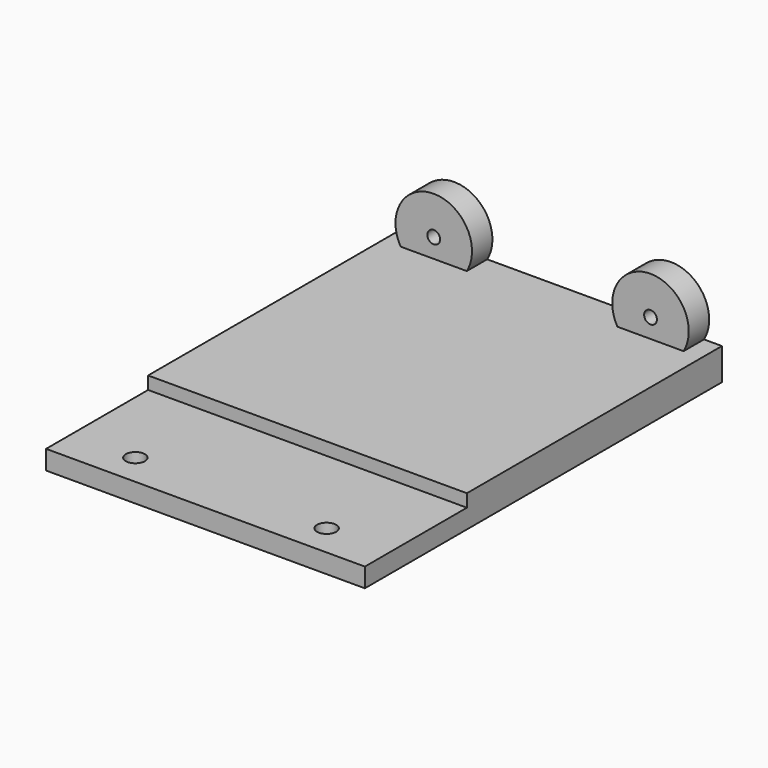
from build123d import *

# Parameters (mm, degrees)
PAD_DEPTH       = 5
SKETCH001_W     = 59.80002
SKETCH001_H     = 24.428946
POCKET_DEPTH    = 2
SKETCH002_R     = 1.5
POCKET001_DEPTH = 5
SKETCH004_R     = 6
SKETCH004_R_2   = 1
PAD001_DEPTH    = 4


with BuildPart() as pocket001:
    # Sketch → Pad (new body)
    with BuildSketch(Plane.XY):
        Polygon((-25, 50), (25, 50), (25, 0), (25, -20), (-25, -20), (-25, 0), align=None)
    extrude(amount=PAD_DEPTH)

    # Sketch001 → Pocket (cut)
    with BuildSketch(Plane.XY.offset(5)):
        with Locations((-0.254472, -12.214473)):
            Rectangle(SKETCH001_W, SKETCH001_H)
    extrude(amount=-POCKET_DEPTH, mode=Mode.SUBTRACT)

    # Sketch002 → Pocket001 (cut)
    with BuildSketch(Plane.XY.offset(3)):
        with Locations((-15, -15)):
            Circle(SKETCH002_R)
        with Locations((15, -15)):
            Circle(SKETCH002_R)
    extrude(amount=-POCKET001_DEPTH, mode=Mode.SUBTRACT)


with BuildPart() as pad001:
    # Sketch004 → Pad001 (new body)
    with BuildSketch(Plane(origin=(0, 50, 0), x_dir=(-1, 0, 0), z_dir=(0, 1, 0))):
        with Locations((-17, 8)):
            Circle(SKETCH004_R)
        with Locations((-17, 8)):
            Circle(SKETCH004_R_2, mode=Mode.SUBTRACT)
        with Locations((17, 8)):
            Circle(SKETCH004_R)
        with Locations((17, 8)):
            Circle(SKETCH004_R_2, mode=Mode.SUBTRACT)
    extrude(amount=-PAD001_DEPTH)


solid = Compound([pocket001.part, pad001.part])
